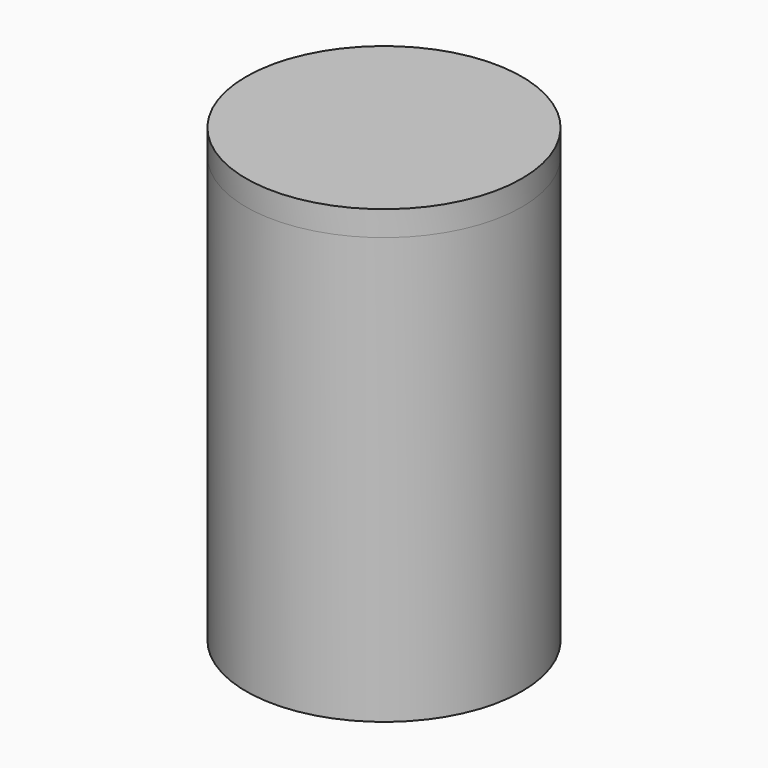
from build123d import *

# Parameters (mm, degrees)
F0_R     = 1100
F1_DEPTH = 3400
F2_T     = -100
F3_R     = 1100
F4_DEPTH = 200


with BuildPart() as f1:
    # F0 (on Top) → F1 (new body)
    with BuildSketch(Plane.XY):
        Circle(F0_R)
    extrude(amount=F1_DEPTH)

    # F2
    f2_openings = [f1.faces().sort_by_distance(p)[0] for p in [
        (0, 0, 3400),
    ]]
    offset(amount=F2_T, openings=f2_openings)


with BuildPart() as f4:
    # F3 (on face) → F4 (new body)
    with BuildSketch(Plane.XY.offset(3400)):
        Circle(F3_R)
    extrude(amount=F4_DEPTH)


solid = Compound([f1.part, f4.part])
